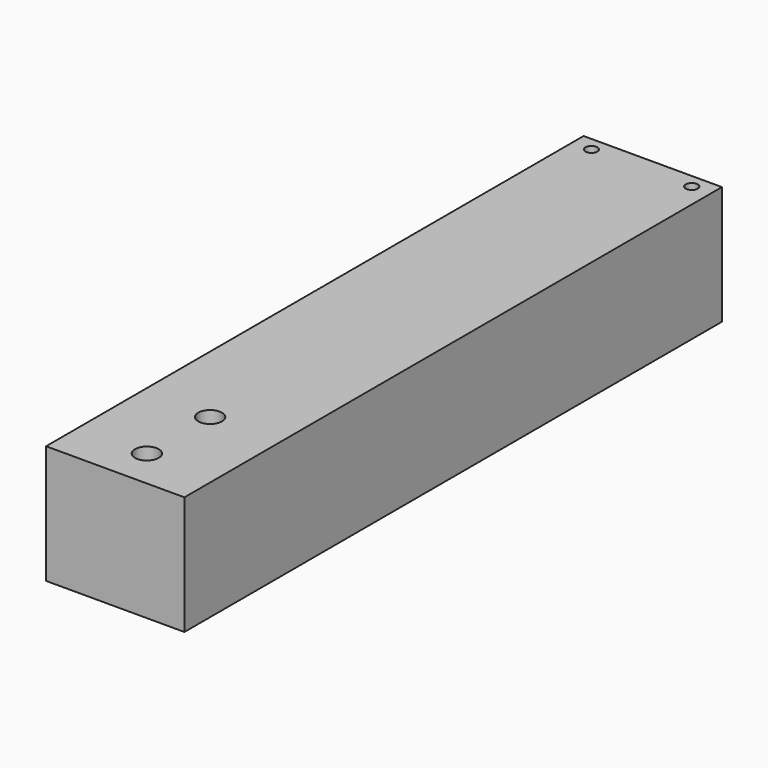
from build123d import *

# Parameters (mm, degrees)
F0_W     = 35
F0_H     = 170
F0_R     = 3
F1_DEPTH = 30
F2_R     = 1.5
F3_DEPTH = 30.001


with BuildPart() as f1:
    # F0 (on Top) → F1 (new body)
    with BuildSketch(Plane.XY):
        Rectangle(F0_W, F0_H)
        with Locations((0, -75)):
            Circle(F0_R, mode=Mode.SUBTRACT)
        with Locations((0, -55)):
            Circle(F0_R, mode=Mode.SUBTRACT)
    extrude(amount=F1_DEPTH)

    # F2 (on face) → F3 (cut, through all)
    with BuildSketch(Plane.XY.offset(30)):
        with Locations((-12.7, 81.464246)):
            Circle(F2_R)
        with Locations((12.7, 81.464246)):
            Circle(F2_R)
    extrude(amount=-F3_DEPTH, mode=Mode.SUBTRACT)


solid = f1.part
